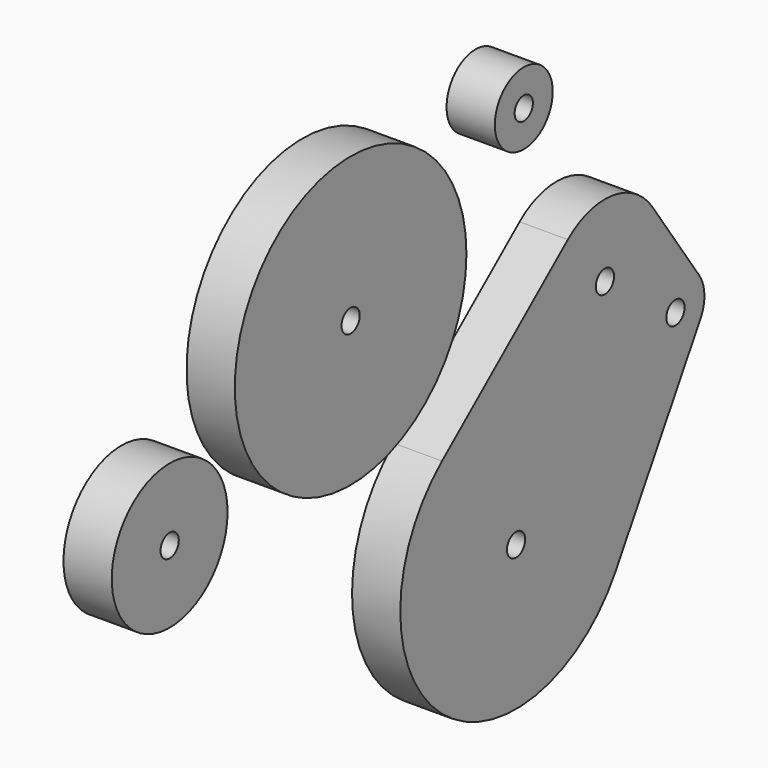
from build123d import *

# Parameters (mm, degrees)
F0_R     = 1.499997
F0_R_2   = 9.525
F0_R_3   = 19.05
F0_R_4   = 4.7625
F1_DEPTH = 6.35


with BuildPart() as f1:
    # F0 (on Right) → F1 (new body)
    with BuildSketch(Plane.YZ):
        with BuildLine():
            Line((-20.975642, 6.234786), (-7.0554, 29.742179))
            ThreePointArc((-7.0554, 29.742179), (-6.394042, 32.344319), (-7.245258, 34.890681))
            Line((-7.245258, 34.890681), (-14.943859, 45.944314))
            ThreePointArc((-14.943859, 45.944314), (-21.487185, 49.940161), (-28.855151, 47.820024))
            Line((-28.855151, 47.820024), (-49.557661, 30.580212))
            ThreePointArc((-49.557661, 30.580212), (-49.719906, 1.439088), (-20.975642, 6.234786))
        make_face()
        with Locations((-37.367273, 15.941327)):
            Circle(F0_R, mode=Mode.SUBTRACT)
        with Locations((-11.153307, 32.168815)):
            Circle(F0_R, mode=Mode.SUBTRACT)
        with Locations((-22.759957, 40.500581)):
            Circle(F0_R, mode=Mode.SUBTRACT)
        with Locations((-94.351119, 39.008833)):
            Circle(F0_R_2)
        with Locations((-94.351119, 39.008833)):
            Circle(F0_R, mode=Mode.SUBTRACT)
        with Locations((-64.585872, 52.950151)):
            Circle(F0_R_3)
        with Locations((-64.585872, 52.950151)):
            Circle(F0_R, mode=Mode.SUBTRACT)
        with Locations((-36.105146, 65.986276)):
            Circle(F0_R_4)
        with Locations((-36.105146, 65.986276)):
            Circle(F0_R, mode=Mode.SUBTRACT)
    extrude(amount=F1_DEPTH)


solid = f1.part
